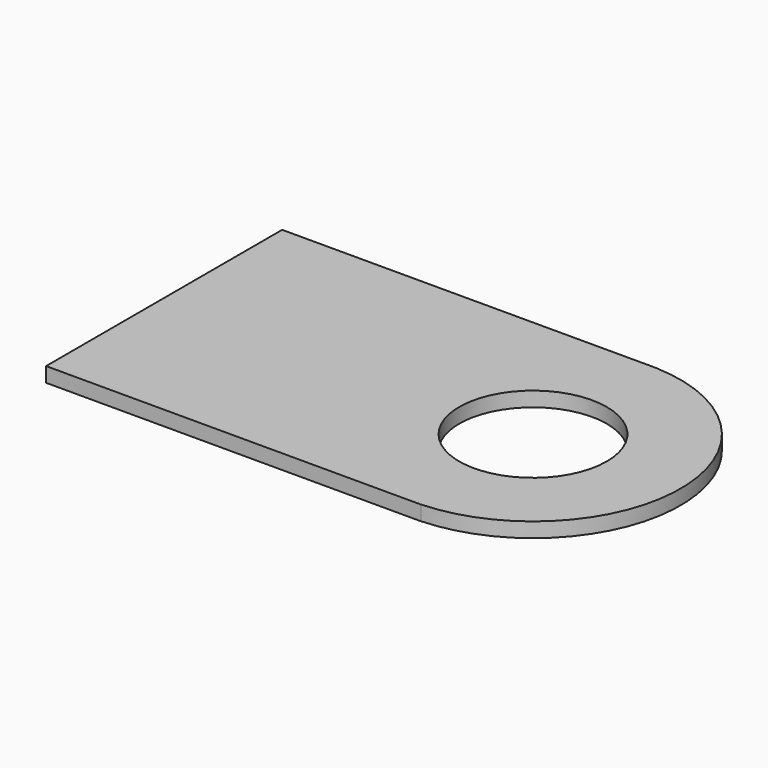
from build123d import *

# Parameters (mm, degrees)
CYLINDER002_R     = 0.5
CYLINDER002_DEPTH = 0.1
BOX003_W          = 2.54
BOX003_H          = 2
BOX003_DEPTH      = 0.1
CYLINDER001_R     = 0.5
CYLINDER001_DEPTH = 0.1
CYLINDER_R        = 1
CYLINDER_DEPTH    = 0.1


with BuildPart() as cylinder002:
    # Cylinder002 → Cylinder002 (new body)
    with BuildSketch(Plane.XY.offset(1)):
        Circle(CYLINDER002_R)
    extrude(amount=CYLINDER002_DEPTH)


with BuildPart() as cut002:
    # Box003 → Box003 (new body)
    with BuildSketch(Plane(origin=(-2.5, -1, 1), x_dir=(1, 0, 0), z_dir=(0, 0, 1))):
        with Locations((1.27, 1)):
            Rectangle(BOX003_W, BOX003_H)
    extrude(amount=BOX003_DEPTH)

    # Cut002: cut Cylinder002
    add(cylinder002.part, mode=Mode.SUBTRACT)


with BuildPart() as cylinder001:
    # Cylinder001 → Cylinder001 (new body)
    with BuildSketch(Plane.XY.offset(1)):
        Circle(CYLINDER001_R)
    extrude(amount=CYLINDER001_DEPTH)


with BuildPart() as fusion:
    # Cylinder → Cylinder (new body)
    with BuildSketch(Plane.XY.offset(1)):
        Circle(CYLINDER_R)
    extrude(amount=CYLINDER_DEPTH)

    # Cut001: cut Cylinder001
    add(cylinder001.part, mode=Mode.SUBTRACT)

    # Fusion: union Cut002
    add(cut002.part)


with BuildPart() as fusion_1:
    # Fusion placement: moved
    add(fusion.part.moved(Location((0, 0, 5.5))))


solid = fusion_1.part
